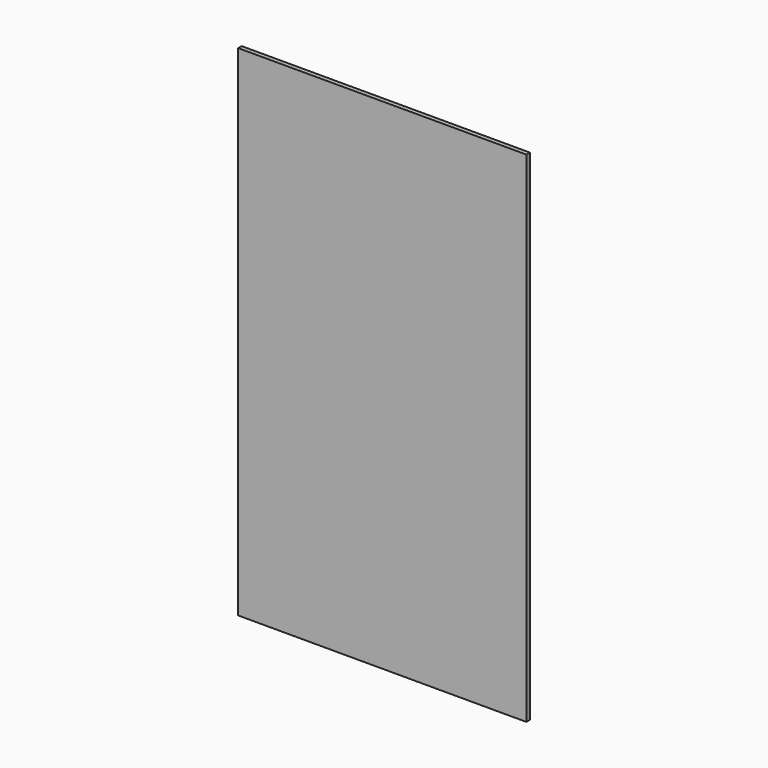
from build123d import *

# Parameters (mm, degrees)
F0_W      = 419.1
F0_H      = 726.44
F1_DEPTH  = 6.35
F4_DEPTH  = 44.45
F5_R      = 7.62
F6_DEPTH  = 63.5
F8_W      = 336.55
F8_H      = 675.64
F9_W      = 406.4
F9_H      = 713.74
F11_DEPTH = 28.575


with BuildPart() as f1:
    # F0 (on Front) → F1 (new body)
    with BuildSketch(Plane.XZ):
        Rectangle(F0_W, F0_H)
    extrude(amount=-F1_DEPTH)

    # F2 (on face) → F4 (join)
    with BuildSketch(Plane(origin=(0, 6.35, 0), x_dir=(-1, 0, 0), z_dir=(0, 1, 0))):
        with BuildLine():
            ThreePointArc((113.9, 101.22), (107.55, 107.57), (101.2, 101.22))
            Line((101.2, 101.22), (107.55, 101.22))
            Line((107.55, 101.22), (107.55, 94.87))
            ThreePointArc((107.55, 94.87), (112.0401280605, 96.7298719395), (113.9, 101.22))
        make_face()
        with BuildLine():
            Line((107.55, 101.22), (101.2, 101.22))
            ThreePointArc((101.2, 101.22), (103.0598719395, 96.7298719395), (107.55, 94.87))
            Line((107.55, 94.87), (107.55, 101.22))
        make_face()
        with BuildLine():
            Line((-92.45, 101.22), (-86.1, 101.22))
            ThreePointArc((-86.1, 101.22), (-96.9401280605, 105.7101280605), (-92.45, 94.87))
            Line((-92.45, 94.87), (-92.45, 101.22))
        make_face()
        with BuildLine():
            ThreePointArc((-92.45, 94.87), (-87.9598719395, 96.7298719395), (-86.1, 101.22))
            Line((-86.1, 101.22), (-92.45, 101.22))
            Line((-92.45, 101.22), (-92.45, 94.87))
        make_face()
        with BuildLine():
            Line((107.55, -98.78), (107.55, -92.43))
            ThreePointArc((107.55, -92.43), (103.0598719395, -94.2898719395), (101.2, -98.78))
            Line((101.2, -98.78), (107.55, -98.78))
        make_face()
        with BuildLine():
            ThreePointArc((113.9, -98.78), (112.0401280605, -94.2898719395), (107.55, -92.43))
            Line((107.55, -92.43), (107.55, -98.78))
            Line((107.55, -98.78), (101.2, -98.78))
            ThreePointArc((101.2, -98.78), (107.55, -105.13), (113.9, -98.78))
        make_face()
        with BuildLine():
            ThreePointArc((-86.1, -98.78), (-87.9598719395, -94.2898719395), (-92.45, -92.43))
            Line((-92.45, -92.43), (-92.45, -98.78))
            Line((-92.45, -98.78), (-86.1, -98.78))
        make_face()
        with BuildLine():
            Line((-92.45, -98.78), (-92.45, -92.43))
            ThreePointArc((-92.45, -92.43), (-96.9401280605, -103.2701280605), (-86.1, -98.78))
            Line((-86.1, -98.78), (-92.45, -98.78))
        make_face()
    extrude(amount=F4_DEPTH)

    # F5 (on face) → F6 (join)
    with BuildSketch(Plane(origin=(0, 6.35, 0), x_dir=(-1, 0, 0), z_dir=(0, 1, 0))):
        with Locations((-33.45, 163.22)):
            Circle(F5_R)
    extrude(amount=F6_DEPTH)

    # F8 (on offset) → F10 section 0
    with BuildSketch(Plane(origin=(0, 34.925, 0), x_dir=(-1, 0, 0), z_dir=(0, 1, 0))):
        with Locations((-15.875, 0)):
            Rectangle(F8_W, F8_H)
    # F9 (on face) → F10 section 1
    with BuildSketch(Plane(origin=(0, 6.35, 0), x_dir=(-1, 0, 0), z_dir=(0, 1, 0))):
        Rectangle(F9_W, F9_H)
    loft()

    # F8 (on offset) → F11 (join)
    with BuildSketch(Plane(origin=(0, 34.925, 0), x_dir=(-1, 0, 0), z_dir=(0, 1, 0))):
        with Locations((-15.875, 0)):
            Rectangle(F8_W, F8_H)
    extrude(amount=-F11_DEPTH)


solid = f1.part
